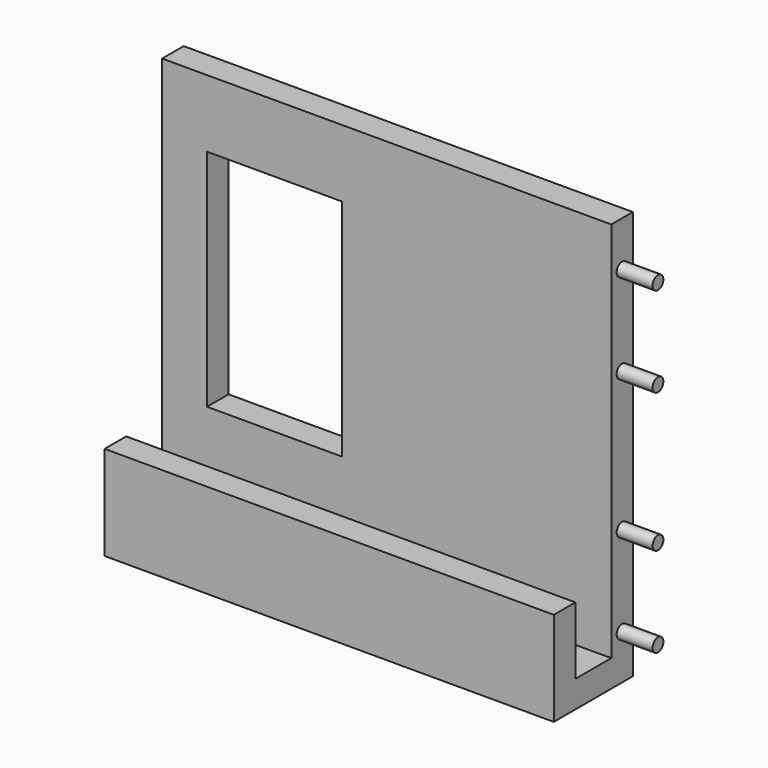
from build123d import *

# Parameters (mm, degrees)
F1_DEPTH = 100
F2_W     = 30
F2_H     = 50
F3_DEPTH = 6
F4_R     = 1.5
F5_DEPTH = 8


with BuildPart() as f1:
    # F0 (on Right) → F1 (new body)
    with BuildSketch(Plane.YZ):
        Polygon((21.477706, -37.121146), (21.477706, 53.878854), (15.477706, 53.878854), (15.477706, -31.121146), (5.477706, -31.121146), (5.477706, -16.121146), (-0.522294, -16.121146), (-0.522294, -37.121146), align=None)
    extrude(amount=F1_DEPTH)

    # F2 (on face) → F3 (cut)
    with BuildSketch(Plane.XZ.offset(-15.477706)):
        with Locations((25, 13.878854)):
            Rectangle(F2_W, F2_H)
    extrude(amount=-F3_DEPTH, mode=Mode.SUBTRACT)

    # F4 (on face) → F5 (join)
    with BuildSketch(Plane.YZ.offset(100)):
        with Locations((18.477706, 43.878854)):
            Circle(F4_R)
        with Locations((18.477706, 23.878854)):
            Circle(F4_R)
        with Locations((18.477706, -7.121146)):
            Circle(F4_R)
        with Locations((18.477706, -27.121146)):
            Circle(F4_R)
    extrude(amount=F5_DEPTH)


solid = f1.part
